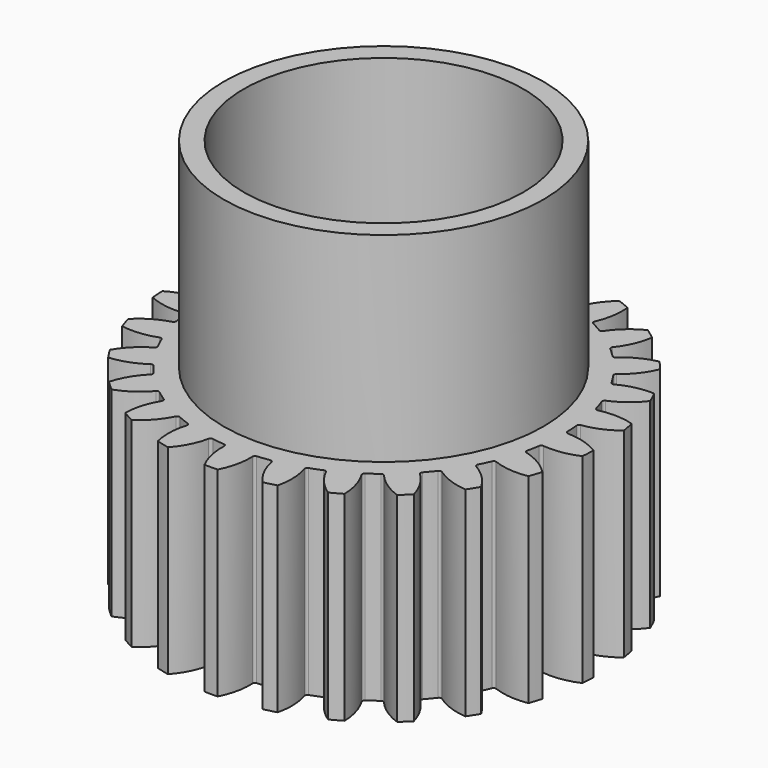
from build123d import *

# Parameters (mm, degrees)
F0_R          = 27
F0_R_2        = 25
F0_R_3        = 22.5
F1_DEPTH      = 12.5
F3_DEPTH      = 12.501
F3_DEPTH_BACK = 12.501
F4_R          = 0.3
F6_COUNT      = 25
F8_R          = 20
F8_R_2        = 17.5
F9_DEPTH      = 25
F10_DEPTH     = 22.5
F8_R_3        = 2.5
F11_DEPTH     = 25.0010001


with BuildPart() as f1:
    # F0 (on Top) → F1 (new body, symmetric)
    with BuildSketch(Plane.XY):
        Circle(F0_R)
        Circle(F0_R_2, mode=Mode.SUBTRACT)
        Circle(F0_R_2)
        Circle(F0_R_3, mode=Mode.SUBTRACT)
        Circle(F0_R_3)
    extrude(amount=F1_DEPTH, both=True)

    # F2 (on Top) → F3 (cut, two sides)
    with BuildSketch(Plane.XY) as f3_sk:
        with BuildLine():
            ThreePointArc((-3.3153169396, 27.8030335321), (-1.7214899207, 25.3375243749), (-1.0720225379, 22.4744469938))
            ThreePointArc((-1.0720225379, 22.4744469938), (0, 22.5), (1.0720225379, 22.4744469938))
            ThreePointArc((1.0720225379, 22.4744469938), (1.7214899207, 25.3375243749), (3.3153169396, 27.8030335321))
            ThreePointArc((3.3153169396, 27.8030335321), (0, 28), (-3.3153169396, 27.8030335321))
        make_face()
    extrude(amount=-F3_DEPTH, mode=Mode.SUBTRACT)
    extrude(f3_sk.sketch, amount=F3_DEPTH_BACK, mode=Mode.SUBTRACT)

    # F4
    f4_edges = [f1.edges().sort_by_distance(p)[0] for p in [
        (-1.072023, 22.474447, 0),
        (1.072023, 22.474447, 0),
    ]]
    fillet(f4_edges, radius=F4_R)


with BuildPart() as f6_1:
    # F6: instance of F1
    add(f1.part.rotate(Axis((0, 0, 0.5866512656), (0, 0, -1)), 1 * 360 / F6_COUNT))


with BuildPart() as f6_2:
    # F6: instance of F1
    add(f1.part.rotate(Axis((0, 0, 0.5866512656), (0, 0, -1)), 2 * 360 / F6_COUNT))


with BuildPart() as f6_3:
    # F6: instance of F1
    add(f1.part.rotate(Axis((0, 0, 0.5866512656), (0, 0, -1)), 3 * 360 / F6_COUNT))


with BuildPart() as f6_4:
    # F6: instance of F1
    add(f1.part.rotate(Axis((0, 0, 0.5866512656), (0, 0, -1)), 4 * 360 / F6_COUNT))


with BuildPart() as f6_5:
    # F6: instance of F1
    add(f1.part.rotate(Axis((0, 0, 0.5866512656), (0, 0, -1)), 5 * 360 / F6_COUNT))


with BuildPart() as f6_6:
    # F6: instance of F1
    add(f1.part.rotate(Axis((0, 0, 0.5866512656), (0, 0, -1)), 6 * 360 / F6_COUNT))


with BuildPart() as f6_7:
    # F6: instance of F1
    add(f1.part.rotate(Axis((0, 0, 0.5866512656), (0, 0, -1)), 7 * 360 / F6_COUNT))


with BuildPart() as f6_8:
    # F6: instance of F1
    add(f1.part.rotate(Axis((0, 0, 0.5866512656), (0, 0, -1)), 8 * 360 / F6_COUNT))


with BuildPart() as f6_9:
    # F6: instance of F1
    add(f1.part.rotate(Axis((0, 0, 0.5866512656), (0, 0, -1)), 9 * 360 / F6_COUNT))


with BuildPart() as f6_10:
    # F6: instance of F1
    add(f1.part.rotate(Axis((0, 0, 0.5866512656), (0, 0, -1)), 10 * 360 / F6_COUNT))


with BuildPart() as f6_11:
    # F6: instance of F1
    add(f1.part.rotate(Axis((0, 0, 0.5866512656), (0, 0, -1)), 11 * 360 / F6_COUNT))


with BuildPart() as f6_12:
    # F6: instance of F1
    add(f1.part.rotate(Axis((0, 0, 0.5866512656), (0, 0, -1)), 12 * 360 / F6_COUNT))


with BuildPart() as f6_13:
    # F6: instance of F1
    add(f1.part.rotate(Axis((0, 0, 0.5866512656), (0, 0, -1)), 13 * 360 / F6_COUNT))


with BuildPart() as f6_14:
    # F6: instance of F1
    add(f1.part.rotate(Axis((0, 0, 0.5866512656), (0, 0, -1)), 14 * 360 / F6_COUNT))


with BuildPart() as f6_15:
    # F6: instance of F1
    add(f1.part.rotate(Axis((0, 0, 0.5866512656), (0, 0, -1)), 15 * 360 / F6_COUNT))


with BuildPart() as f6_16:
    # F6: instance of F1
    add(f1.part.rotate(Axis((0, 0, 0.5866512656), (0, 0, -1)), 16 * 360 / F6_COUNT))


with BuildPart() as f6_17:
    # F6: instance of F1
    add(f1.part.rotate(Axis((0, 0, 0.5866512656), (0, 0, -1)), 17 * 360 / F6_COUNT))


with BuildPart() as f6_18:
    # F6: instance of F1
    add(f1.part.rotate(Axis((0, 0, 0.5866512656), (0, 0, -1)), 18 * 360 / F6_COUNT))


with BuildPart() as f6_19:
    # F6: instance of F1
    add(f1.part.rotate(Axis((0, 0, 0.5866512656), (0, 0, -1)), 19 * 360 / F6_COUNT))


with BuildPart() as f6_20:
    # F6: instance of F1
    add(f1.part.rotate(Axis((0, 0, 0.5866512656), (0, 0, -1)), 20 * 360 / F6_COUNT))


with BuildPart() as f6_21:
    # F6: instance of F1
    add(f1.part.rotate(Axis((0, 0, 0.5866512656), (0, 0, -1)), 21 * 360 / F6_COUNT))


with BuildPart() as f6_22:
    # F6: instance of F1
    add(f1.part.rotate(Axis((0, 0, 0.5866512656), (0, 0, -1)), 22 * 360 / F6_COUNT))


with BuildPart() as f6_23:
    # F6: instance of F1
    add(f1.part.rotate(Axis((0, 0, 0.5866512656), (0, 0, -1)), 23 * 360 / F6_COUNT))


with BuildPart() as f6_24:
    # F6: instance of F1
    add(f1.part.rotate(Axis((0, 0, 0.5866512656), (0, 0, -1)), 24 * 360 / F6_COUNT))


with BuildPart() as f1_1:
    add(f1.part)

    # F7: intersect F6_24, F6_3, F6_1, F6_22, F6_21, F6_19, F6_18, F6_17, F6_16, F6_15, F6_14, F6_13, F6_12, F6_11, F6_10, F6_9, F6_8, F6_7, F6_6, F6_20, F6_5, F6_4, F6_23, F6_2
    add(f6_24.part, mode=Mode.INTERSECT)
    add(f6_3.part, mode=Mode.INTERSECT)
    add(f6_1.part, mode=Mode.INTERSECT)
    add(f6_22.part, mode=Mode.INTERSECT)
    add(f6_21.part, mode=Mode.INTERSECT)
    add(f6_19.part, mode=Mode.INTERSECT)
    add(f6_18.part, mode=Mode.INTERSECT)
    add(f6_17.part, mode=Mode.INTERSECT)
    add(f6_16.part, mode=Mode.INTERSECT)
    add(f6_15.part, mode=Mode.INTERSECT)
    add(f6_14.part, mode=Mode.INTERSECT)
    add(f6_13.part, mode=Mode.INTERSECT)
    add(f6_12.part, mode=Mode.INTERSECT)
    add(f6_11.part, mode=Mode.INTERSECT)
    add(f6_10.part, mode=Mode.INTERSECT)
    add(f6_9.part, mode=Mode.INTERSECT)
    add(f6_8.part, mode=Mode.INTERSECT)
    add(f6_7.part, mode=Mode.INTERSECT)
    add(f6_6.part, mode=Mode.INTERSECT)
    add(f6_20.part, mode=Mode.INTERSECT)
    add(f6_5.part, mode=Mode.INTERSECT)
    add(f6_4.part, mode=Mode.INTERSECT)
    add(f6_23.part, mode=Mode.INTERSECT)
    add(f6_2.part, mode=Mode.INTERSECT)

    # F8 (on face) → F9 (join)
    with BuildSketch(Plane.XY.offset(12.5)):
        Circle(F8_R)
        Circle(F8_R_2, mode=Mode.SUBTRACT)
    extrude(amount=F9_DEPTH)

    # F10 (cut): a face of the model
    f10_faces = [f1_1.faces().sort_by_distance(p)[0] for p in [
        (0, 0, 12.5),
    ]]
    extrude(f10_faces, amount=-F10_DEPTH, mode=Mode.SUBTRACT)

    # F8 (on face) → F11 (cut, through all)
    with BuildSketch(Plane.XY.offset(12.5)):
        Circle(F8_R_3)
    extrude(amount=-F11_DEPTH, mode=Mode.SUBTRACT)


solid = f1_1.part
